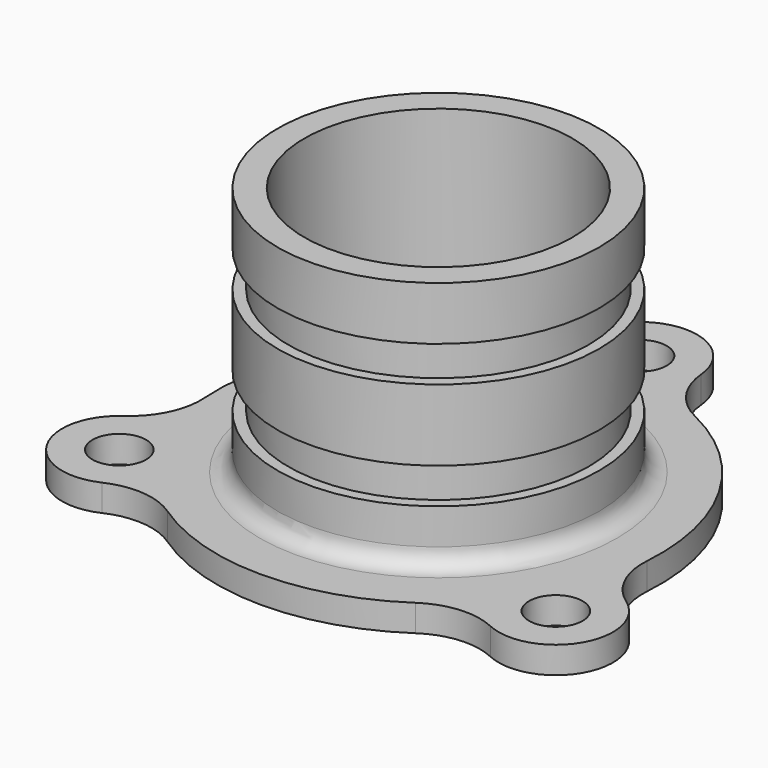
from build123d import *

# Parameters (mm, degrees)
SKETCH_R     = 7.5
PAD_DEPTH    = 7.5
FILLET_R     = 5
SKETCH002_R  = 37.5
POCKET_DEPTH = 77.501


with BuildPart() as part:
    # Sketch → Pad (new body)
    with BuildSketch(Plane.XY):
        with BuildLine():
            ThreePointArc((-27.108608, 55.759514), (-53.693575, 31), (-61.843459, -4.403014))
            ThreePointArc((-70.271756, -22.171485), (-63.722793, -14.394746), (-61.843459, -4.403014))
            ThreePointArc((-70.271756, -22.171485), (-74.911197, -43.25), (-54.336947, -49.771383))
            ThreePointArc((-34.734852, -51.3565), (-44.327612, -47.988185), (-54.336947, -49.771383))
            ThreePointArc((-34.734852, -51.3565), (0, -62), (34.734852, -51.3565))
            ThreePointArc((54.336947, -49.771383), (44.327612, -47.988185), (34.734852, -51.3565))
            ThreePointArc((54.336947, -49.771383), (74.911197, -43.25), (70.271756, -22.171485))
            ThreePointArc((61.843459, -4.403014), (63.722793, -14.394746), (70.271756, -22.171485))
            ThreePointArc((61.843459, -4.403014), (53.693575, 31), (27.108608, 55.759514))
            ThreePointArc((15.934809, 71.942868), (19.395181, 62.38293), (27.108608, 55.759514))
            ThreePointArc((15.934809, 71.942868), (0, 86.5), (-15.934809, 71.942868))
            ThreePointArc((-27.108608, 55.759514), (-19.395181, 62.38293), (-15.934809, 71.942868))
        make_face()
        with Locations((0, 70.5)):
            Circle(SKETCH_R, mode=Mode.SUBTRACT)
        with Locations((-61.054791, -35.25)):
            Circle(SKETCH_R, mode=Mode.SUBTRACT)
        with Locations((61.054791, -35.25)):
            Circle(SKETCH_R, mode=Mode.SUBTRACT)
    extrude(amount=PAD_DEPTH)

    # Sketch001 → Revolution (revolve)
    with BuildSketch(Plane.XZ):
        Polygon((0, 7.5), (45, 7.5), (45, 22.5), (42, 22.5), (42, 32.5), (45, 32.5), (45, 52.5), (42, 52.5), (42, 62.5), (45, 62.5), (45, 77.5), (0, 77.5), align=None)
    revolve(axis=Axis((0, 0, 0), (0, 0, 1)))

    # Fillet
    fillet_edges = [part.edges().sort_by_distance(p)[0] for p in [
        (-45, 0, 7.5),
    ]]
    fillet(fillet_edges, radius=FILLET_R)

    # Sketch002 (on Face28 of Fillet) → Pocket (cut, through all)
    with BuildSketch(Plane.XY.offset(77.5)):
        Circle(SKETCH002_R)
    extrude(amount=-POCKET_DEPTH, mode=Mode.SUBTRACT)


solid = part.part
